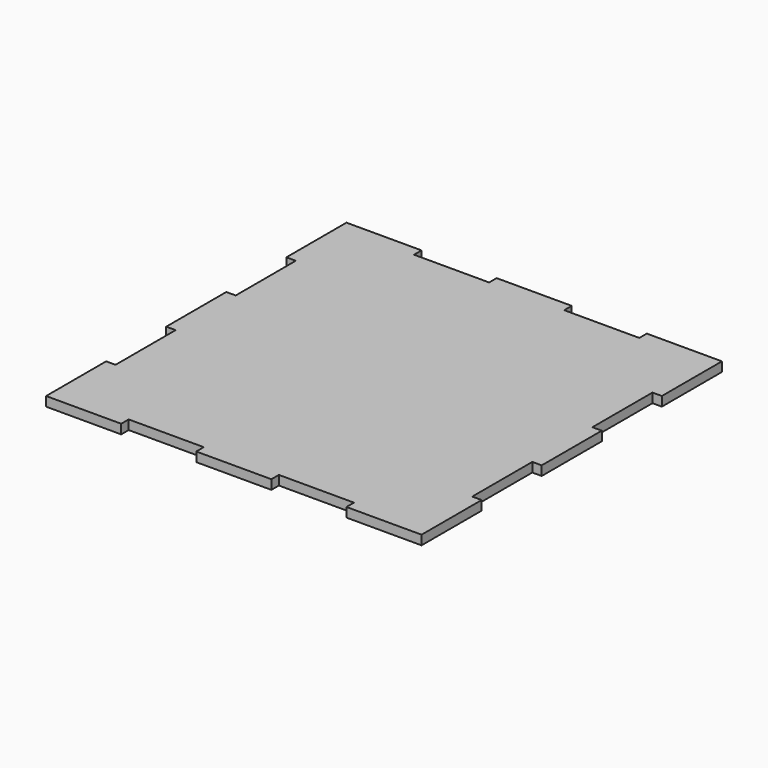
from build123d import *

# Parameters (mm, degrees)
F0_W     = 3.175
F0_H     = 3.175
F0_W_2   = 22.225
F0_W_3   = 25.4
F0_H_2   = 22.225
F0_H_3   = 25.4
F1_DEPTH = 3.175


with BuildPart() as f1:
    # F0 (on Top) → F1 (new body)
    with BuildSketch(Plane.XY):
        with Locations((-61.9125, 61.9125)):
            Rectangle(F0_W, F0_H)
        with Locations((61.9125, 61.9125)):
            Rectangle(F0_W, F0_H)
        with Locations((-61.9125, -61.9125)):
            Rectangle(F0_W, F0_H)
        with Locations((61.9125, -61.9125)):
            Rectangle(F0_W, F0_H)
        with Locations((-49.2125, 61.9125)):
            Rectangle(F0_W_2, F0_H)
        with Locations((0, 61.9125)):
            Rectangle(F0_W_3, F0_H)
        with Locations((49.2125, 61.9125)):
            Rectangle(F0_W_2, F0_H)
        with Locations((-49.2125, -61.9125)):
            Rectangle(F0_W_2, F0_H)
        with Locations((0, -61.9125)):
            Rectangle(F0_W_3, F0_H)
        with Locations((49.2125, -61.9125)):
            Rectangle(F0_W_2, F0_H)
        with Locations((-61.9125, 49.2125)):
            Rectangle(F0_W, F0_H_2)
        with Locations((-61.9125, 0)):
            Rectangle(F0_W, F0_H_3)
        with Locations((-61.9125, -49.2125)):
            Rectangle(F0_W, F0_H_2)
        with Locations((61.9125, 49.2125)):
            Rectangle(F0_W, F0_H_2)
        with Locations((61.9125, 0)):
            Rectangle(F0_W, F0_H_3)
        with Locations((61.9125, -49.2125)):
            Rectangle(F0_W, F0_H_2)
        with Locations((-49.2125, 49.2125)):
            Rectangle(F0_W_2, F0_H_2)
        with Locations((-25.4, 49.2125)):
            Rectangle(F0_W_3, F0_H_2)
        with Locations((25.4, 49.2125)):
            Rectangle(F0_W_3, F0_H_2)
        with Locations((49.2125, 49.2125)):
            Rectangle(F0_W_2, F0_H_2)
        with Locations((49.2125, 25.4)):
            Rectangle(F0_W_2, F0_H_3)
        with Locations((25.4, 25.4)):
            Rectangle(F0_W_3, F0_H_3)
        with Locations((0, 25.4)):
            Rectangle(F0_W_3, F0_H_3)
        with Locations((-25.4, 25.4)):
            Rectangle(F0_W_3, F0_H_3)
        with Locations((-49.2125, 25.4)):
            Rectangle(F0_W_2, F0_H_3)
        with Locations((-49.2125, 0)):
            Rectangle(F0_W_2, F0_H_3)
        with Locations((-25.4, 0)):
            Rectangle(F0_W_3, F0_H_3)
        Rectangle(F0_W_3, F0_H_3)
        with Locations((25.4, 0)):
            Rectangle(F0_W_3, F0_H_3)
        with Locations((49.2125, 0)):
            Rectangle(F0_W_2, F0_H_3)
        with Locations((49.2125, -25.4)):
            Rectangle(F0_W_2, F0_H_3)
        with Locations((25.4, -25.4)):
            Rectangle(F0_W_3, F0_H_3)
        with Locations((0, -25.4)):
            Rectangle(F0_W_3, F0_H_3)
        with Locations((-25.4, -25.4)):
            Rectangle(F0_W_3, F0_H_3)
        with Locations((-49.2125, -25.4)):
            Rectangle(F0_W_2, F0_H_3)
        with Locations((-49.2125, -49.2125)):
            Rectangle(F0_W_2, F0_H_2)
        with Locations((-25.4, -49.2125)):
            Rectangle(F0_W_3, F0_H_2)
        with Locations((25.4, -49.2125)):
            Rectangle(F0_W_3, F0_H_2)
        with Locations((49.2125, -49.2125)):
            Rectangle(F0_W_2, F0_H_2)
        with Locations((0, 49.2125)):
            Rectangle(F0_W_3, F0_H_2)
        with Locations((0, -49.2125)):
            Rectangle(F0_W_3, F0_H_2)
    extrude(amount=F1_DEPTH)


solid = f1.part
